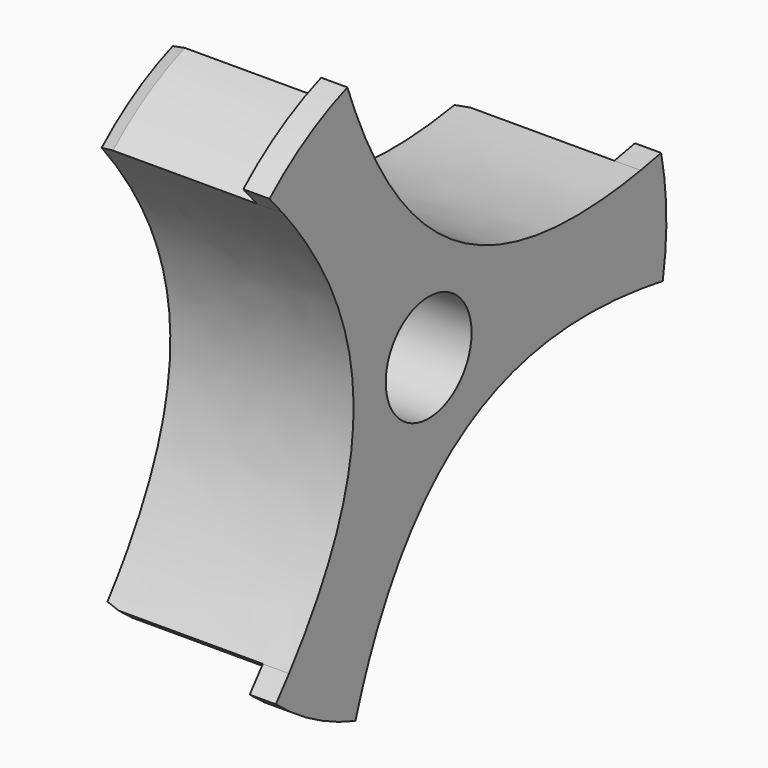
from build123d import *

# Parameters (mm, degrees)
F0_R     = 26.289
F0_R_2   = 5.207
F1_DEPTH = 15.24
F2_R     = 28.829
F2_R_2   = 5.207
F3_DEPTH = 2.54
F5_DEPTH = 17.781
F6_COUNT = 3
F6_ANGLE = 240
F8_SIZE2 = 1.27
F8_SIZE  = 0.3402954744


with BuildPart() as f1:
    # F0 (on Right) → F1 (new body)
    with BuildSketch(Plane.YZ):
        Circle(F0_R)
        Circle(F0_R_2, mode=Mode.SUBTRACT)
    extrude(amount=-F1_DEPTH)

    # F2 (on face) → F3 (join)
    with BuildSketch(Plane.YZ):
        Circle(F2_R)
        Circle(F2_R_2, mode=Mode.SUBTRACT)
    extrude(amount=F3_DEPTH)


with BuildPart() as f5:
    # F4 (on face) → F5 (new body, through all)
    with BuildSketch(Plane(origin=(-15.24, 0, 0), x_dir=(0, -1, 0), z_dir=(-1, 0, 0))):
        with BuildLine():
            ThreePointArc((-28.3910227116, -5.006103314), (-23.5858740231, -39.2113912621), (8.8826653964, -27.4264379104))
            add(Edge.make_bspline(
                [(8.8826653964, -27.4264379104), (8.6161177773, -26.6034358722), (8.3394760096, -25.8031213114), (8.0525136679, -25.025358032)],
                knots=[0, 0, 0, 0, 1.8877220202, 1.8877220202, 1.8877220202, 1.8877220202], degree=3))
            ThreePointArc((8.0525136679, -25.025358032), (-13.5505111701, -22.527653407), (-25.8808899077, -4.6142235084))
            add(Edge.make_bspline(
                [(-25.8808899077, -4.6142235084), (-26.7024403228, -4.7252100836), (-27.5390757823, -4.8558820842), (-28.3910227116, -5.006103314)],
                knots=[41.6093954543, 41.6093954543, 41.6093954543, 41.6093954543, 43.4971174745, 43.4971174745, 43.4971174745, 43.4971174745], degree=3))
        make_face()
        with BuildLine():
            ThreePointArc((-25.8808899077, -4.6142235084), (-13.5505111701, -22.527653407), (8.0525136679, -25.025358032))
            add(Edge.make_bspline(
                [(8.0525136679, -25.025358032), (2.0142176142, -8.6595697091), (-8.5937274184, -2.2788306654), (-25.8808899077, -4.6142235084)],
                knots=[1.8877220202, 1.8877220202, 1.8877220202, 1.8877220202, 41.6093954543, 41.6093954543, 41.6093954543, 41.6093954543], degree=3))
        make_face()
    extrude(amount=-F5_DEPTH)


with BuildPart() as f6_1:
    # F6: instance of F5
    add(f5.part.rotate(Axis((0, 0, 0), (1, 0, 0)), 1 * F6_ANGLE / (F6_COUNT - 1)))


with BuildPart() as f6_2:
    # F6: instance of F5
    add(f5.part.rotate(Axis((0, 0, 0), (1, 0, 0)), 2 * F6_ANGLE / (F6_COUNT - 1)))


with BuildPart() as f1_1:
    add(f1.part)

    # F7: cut F5, F6_2, F6_1
    add(f5.part, mode=Mode.SUBTRACT)
    add(f6_2.part, mode=Mode.SUBTRACT)
    add(f6_1.part, mode=Mode.SUBTRACT)

    # F8
    f8_edges = [f1_1.edges().sort_by_distance(p)[0] for p in [
        (-15.24, 26.284776, 0.47126),
        (-15.24, -13.550511, 22.527653),
        (-15.24, -12.734265, -22.998914),
    ]]
    f8_side = f1_1.faces().sort_by_distance((-15.24, 4.091505, 7.389523))[0]
    chamfer(f8_edges, length=F8_SIZE, length2=F8_SIZE2, reference=f8_side)


solid = f1_1.part
